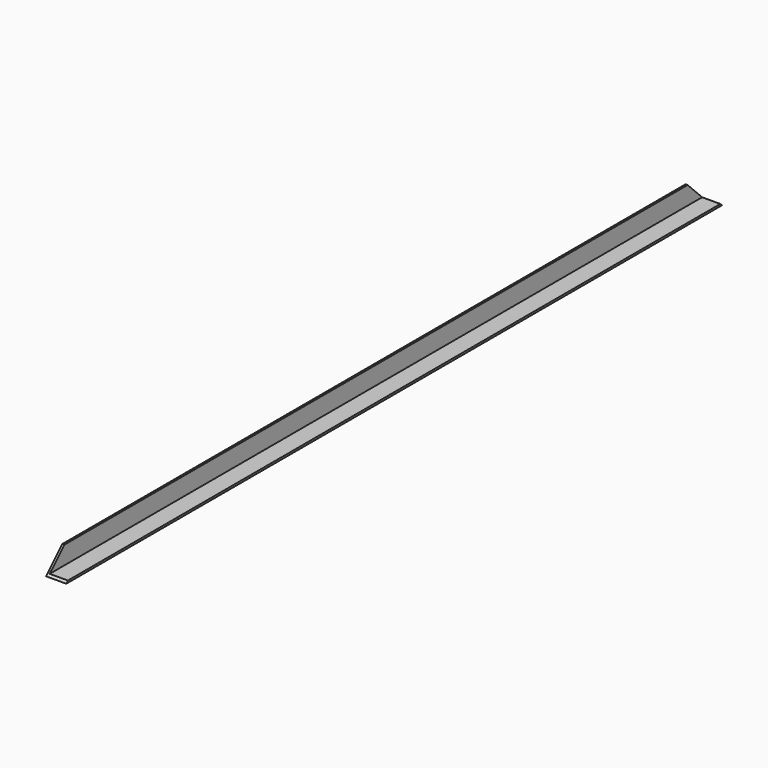
from build123d import *

# Parameters (mm, degrees)
F1_DEPTH = 1015
F3_DEPTH = 50


with BuildPart() as f1:
    # F0 (on Front) → F1 (new body, symmetric)
    with BuildSketch(Plane.XZ):
        Polygon((0, 50), (0, 0), (50, 0), (50, 5), (5, 5), (5, 50), align=None)
    extrude(amount=F1_DEPTH, both=True)

    # F2 (on face) → F3 (cut)
    with BuildSketch(Plane(origin=(0, 0, 0), x_dir=(0, -1, 0), z_dir=(-1, 0, 0))):
        Polygon((-1015, 50), (-1015, 0), (-965, 50), align=None)
        Polygon((965, 50), (1015, 0), (1015, 50), align=None)
    extrude(amount=-F3_DEPTH, mode=Mode.SUBTRACT)


solid = f1.part
